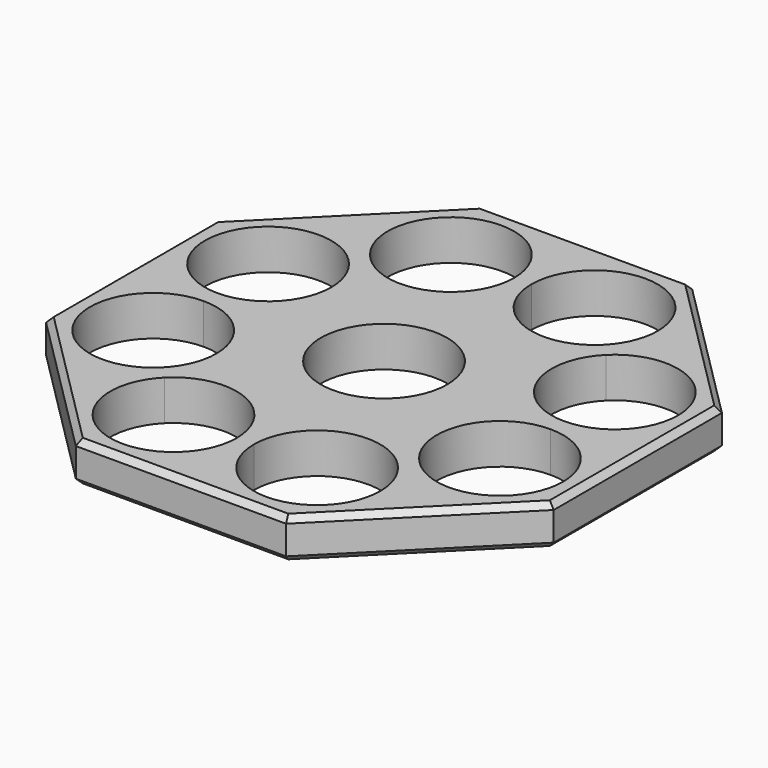
from build123d import *

# Parameters (mm, degrees)
F0_R     = 11
F1_DEPTH = 7
F2_SIZE  = 1


with BuildPart() as f1:
    # F0 (on Top) → F1 (new body)
    with BuildSketch(Plane.XY):
        Polygon((44.17767, -18.29899), (44.17767, 18.29899), (18.29899, 44.17767), (-18.29899, 44.17767), (-44.17767, 18.29899), (-44.17767, -18.29899), (-18.29899, -44.17767), (18.29899, -44.17767), align=None)
        with BuildLine():
            ThreePointArc((-20.278175, -22.399495), (-8.290482, -20.014995), (-1.5, -30.17767))
            ThreePointArc((-1.5, -30.17767), (-16.709518, -40.340344), (-20.278175, -22.399495))
        make_face(mode=Mode.SUBTRACT)
        with BuildLine():
            ThreePointArc((-30.17767, -1.5), (-22.399495, -4.721825), (-19.17767, -12.5))
            ThreePointArc((-19.17767, -12.5), (-20.014995, -16.709518), (-22.399495, -20.278175))
            ThreePointArc((-22.399495, -20.278175), (-40.340344, -16.709518), (-30.17767, -1.5))
        make_face(mode=Mode.SUBTRACT)
        with BuildLine():
            ThreePointArc((20.278175, -22.399495), (22.662675, -25.968152), (23.5, -30.17767))
            ThreePointArc((23.5, -30.17767), (12.5, -41.17767), (1.5, -30.17767))
            ThreePointArc((1.5, -30.17767), (8.290482, -20.014995), (20.278175, -22.399495))
        make_face(mode=Mode.SUBTRACT)
        with BuildLine():
            ThreePointArc((30.17767, -1.5), (37.955844, -4.721825), (41.17767, -12.5))
            ThreePointArc((41.17767, -12.5), (34.387187, -22.662675), (22.399495, -20.278175))
            ThreePointArc((22.399495, -20.278175), (20.014995, -8.290482), (30.17767, -1.5))
        make_face(mode=Mode.SUBTRACT)
        with BuildLine():
            ThreePointArc((-22.399495, 20.278175), (-20.014995, 16.709518), (-19.17767, 12.5))
            ThreePointArc((-19.17767, 12.5), (-22.399495, 4.721825), (-30.17767, 1.5))
            ThreePointArc((-30.17767, 1.5), (-40.340344, 16.709518), (-22.399495, 20.278175))
        make_face(mode=Mode.SUBTRACT)
        with BuildLine():
            ThreePointArc((-20.278175, 22.399495), (-16.709518, 40.340344), (-1.5, 30.17767))
            ThreePointArc((-1.5, 30.17767), (-8.290482, 20.014995), (-20.278175, 22.399495))
        make_face(mode=Mode.SUBTRACT)
        Circle(F0_R, mode=Mode.SUBTRACT)
        with BuildLine():
            ThreePointArc((22.399495, 20.278175), (34.387187, 22.662675), (41.17767, 12.5))
            ThreePointArc((41.17767, 12.5), (37.955844, 4.721825), (30.17767, 1.5))
            ThreePointArc((30.17767, 1.5), (20.014995, 8.290482), (22.399495, 20.278175))
        make_face(mode=Mode.SUBTRACT)
        with BuildLine():
            ThreePointArc((1.5, 30.17767), (12.5, 41.17767), (23.5, 30.17767))
            ThreePointArc((23.5, 30.17767), (22.662675, 25.968152), (20.278175, 22.399495))
            ThreePointArc((20.278175, 22.399495), (8.290482, 20.014995), (1.5, 30.17767))
        make_face(mode=Mode.SUBTRACT)
    extrude(amount=F1_DEPTH)

    # F2
    f2_edges = [f1.edges().sort_by_distance(p)[0] for p in [
        (-31.23833, 31.23833, 0),
        (-44.17767, 0, 0),
        (-31.23833, -31.23833, 0),
        (0, -44.17767, 0),
        (31.23833, -31.23833, 0),
        (44.17767, 0, 0),
        (0, 44.17767, 0),
        (31.23833, 31.23833, 0),
        (31.23833, 31.23833, 7),
        (44.17767, 0, 7),
        (31.23833, -31.23833, 7),
        (0, -44.17767, 7),
        (-31.23833, -31.23833, 7),
        (-31.23833, 31.23833, 7),
        (-44.17767, 0, 7),
        (0, 44.17767, 7),
    ]]
    chamfer(f2_edges, length=F2_SIZE)


solid = f1.part
